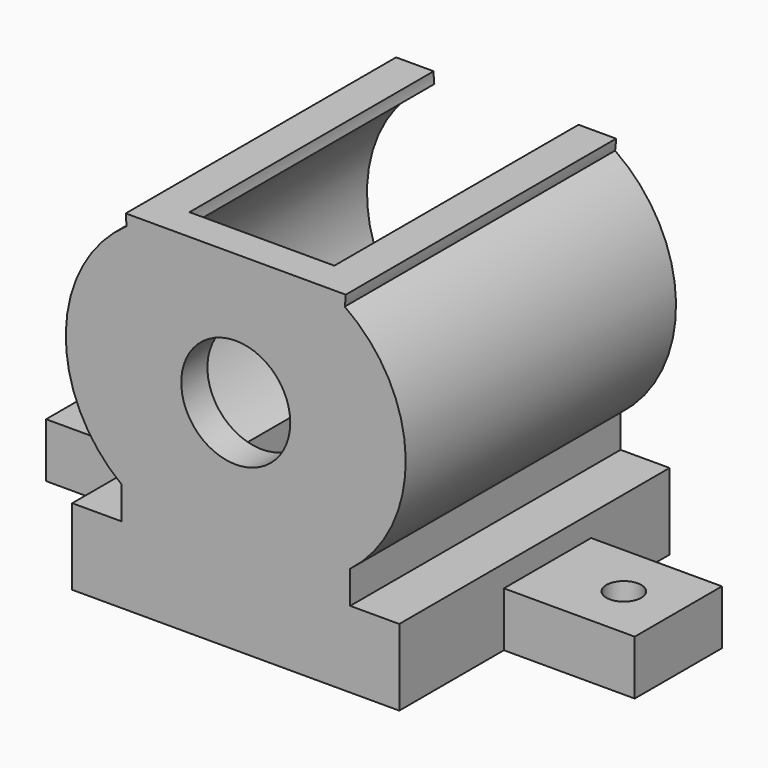
from build123d import *

# Parameters (mm, degrees)
BOX043_W               = 24
BOX043_H               = 42
BOX043_DEPTH           = 13
SKETCH021_R            = 5
EXTRUDE021_DEPTH       = 3
CYLINDER038_R          = 1.6
CYLINDER038_DEPTH      = 10
BOX042_W               = 12
BOX042_H               = 10
BOX042_DEPTH           = 5
CUT030_PLACEMENT_ANGLE = 180
CYLINDER037_R          = 1.6
CYLINDER037_DEPTH      = 10
BOX041_W               = 12
BOX041_H               = 10
BOX041_DEPTH           = 5
BOX040_W               = 3
BOX040_H               = 2
BOX040_DEPTH           = 2
CYLINDER036_R          = 1.25
CYLINDER036_DEPTH      = 10
CYLINDER035_R          = 1.25
CYLINDER035_DEPTH      = 10
EXTRUDE020_DEPTH       = 28


with BuildPart() as cube025:
    # Box043 → Box043 (new body)
    with BuildSketch(Plane(origin=(-12, -2, 12), x_dir=(1, 0, 0), z_dir=(0, 0, 1))):
        with Locations((12, 21)):
            Rectangle(BOX043_W, BOX043_H)
    extrude(amount=BOX043_DEPTH)


with BuildPart() as front_cover:
    # Sketch021 → Extrude021 (new body)
    with BuildSketch(Plane.XZ):
        with BuildLine():
            ThreePointArc((10, 11), (0, 22.517745), (-10, 11))
            ThreePointArc((-10, 11), (-15.587711, 0.627088), (-10.5, -10))
            Line((-10.5, -10), (-10.5, -13))
            Line((-10.5, -13), (-15, -13))
            Line((-15, -13), (-15, -20))
            Line((-15, -20), (15, -20))
            Line((15, -13), (15, -20))
            Line((10.5, -13), (15, -13))
            Line((10.5, -10), (10.5, -13))
            ThreePointArc((10.5, -10), (15.587711, 0.627088), (10, 11))
        make_face()
        Circle(SKETCH021_R, mode=Mode.SUBTRACT)
    extrude(amount=-EXTRUDE021_DEPTH)


with BuildPart() as cylinder038:
    # Cylinder038 → Cylinder038 (new body)
    with BuildSketch(Plane(origin=(22, 17, -22), x_dir=(1, 0, 0), z_dir=(0, 0, 1))):
        Circle(CYLINDER038_R)
    extrude(amount=CYLINDER038_DEPTH)


with BuildPart() as cut030:
    # Box042 → Box042 (new body)
    with BuildSketch(Plane(origin=(15, 12, -20), x_dir=(1, 0, 0), z_dir=(0, 0, 1))):
        with Locations((6, 5)):
            Rectangle(BOX042_W, BOX042_H)
    extrude(amount=BOX042_DEPTH)

    # Cut030: cut Cylinder038
    add(cylinder038.part, mode=Mode.SUBTRACT)


with BuildPart() as cut030_1:
    # Cut030 placement: moved
    add(cut030.part.moved(Location((0, 34, 0))).rotate(Axis((0, 34, 0), (0, 0, 1)), CUT030_PLACEMENT_ANGLE))


with BuildPart() as cylinder037:
    # Cylinder037 → Cylinder037 (new body)
    with BuildSketch(Plane(origin=(22, 17, -22), x_dir=(1, 0, 0), z_dir=(0, 0, 1))):
        Circle(CYLINDER037_R)
    extrude(amount=CYLINDER037_DEPTH)


with BuildPart() as cut029:
    # Box041 → Box041 (new body)
    with BuildSketch(Plane(origin=(15, 12, -20), x_dir=(1, 0, 0), z_dir=(0, 0, 1))):
        with Locations((6, 5)):
            Rectangle(BOX041_W, BOX041_H)
    extrude(amount=BOX041_DEPTH)

    # Cut029: cut Cylinder037
    add(cylinder037.part, mode=Mode.SUBTRACT)


with BuildPart() as cube022:
    # Box040 → Box040 (new body)
    with BuildSketch(Plane(origin=(-1.5, 29, 19.5), x_dir=(1, 0, 0), z_dir=(0, 0, 1))):
        with Locations((1.5, 1)):
            Rectangle(BOX040_W, BOX040_H)
    extrude(amount=BOX040_DEPTH)


with BuildPart() as cylinder036:
    # Cylinder036 → Cylinder036 (new body)
    with BuildSketch(Plane(origin=(-10.87, 21, -16.5), x_dir=(1, 0, 0), z_dir=(0, 1, 0))):
        Circle(CYLINDER036_R)
    extrude(amount=CYLINDER036_DEPTH)


with BuildPart() as m2_cyl:
    # Cylinder035 → Cylinder035 (new body)
    with BuildSketch(Plane(origin=(10.87, 21, -16.5), x_dir=(1, 0, 0), z_dir=(0, 1, 0))):
        Circle(CYLINDER035_R)
    extrude(amount=CYLINDER035_DEPTH)

    # Fusion024: union Cylinder036
    add(cylinder036.part)


with BuildPart() as outerbox:
    # Sketch020 → Extrude020 (new body)
    with BuildSketch(Plane.XZ):
        with BuildLine():
            ThreePointArc((10, 11), (0, 22.517745), (-10, 11))
            ThreePointArc((-10, 11), (-15.587711, 0.627088), (-10.5, -10))
            Line((-10.5, -10), (-10.5, -13))
            Line((-10.5, -13), (-15, -13))
            Line((-15, -13), (-15, -20))
            Line((-15, -20), (15, -20))
            Line((15, -13), (15, -20))
            Line((10.5, -13), (15, -13))
            Line((10.5, -10), (10.5, -13))
            ThreePointArc((10.5, -10), (15.587711, 0.627088), (10, 11))
        make_face()
        with BuildLine():
            Line((-7.5, -10), (-7.5, -16))
            Line((-7.5, -16), (7.5, -16))
            Line((7.5, -16), (7.5, -10))
            ThreePointArc((7.5, -10), (12.754076, 0.73948), (6.583703, 10.98))
            ThreePointArc((6.583703, 10.98), (0, 18.524934), (-6.583703, 10.98))
            ThreePointArc((-6.583703, 10.98), (-12.754076, 0.73948), (-7.5, -10))
        make_face(mode=Mode.SUBTRACT)
    extrude(amount=-EXTRUDE020_DEPTH)


with BuildPart() as outerbox_1:
    # Extrude020 placement: moved
    add(outerbox.part.moved(Location((0, 3, 0))))

    # Cut027: cut m2_cyl
    add(m2_cyl.part, mode=Mode.SUBTRACT)

    # Cut028: cut Cube022
    add(cube022.part, mode=Mode.SUBTRACT)

    # Fusion026: union Front_cover, Cut030, Cut029
    add(front_cover.part)
    add(cut030_1.part)
    add(cut029.part)

    # Cut031: cut Cube025
    add(cube025.part, mode=Mode.SUBTRACT)


solid = outerbox_1.part
